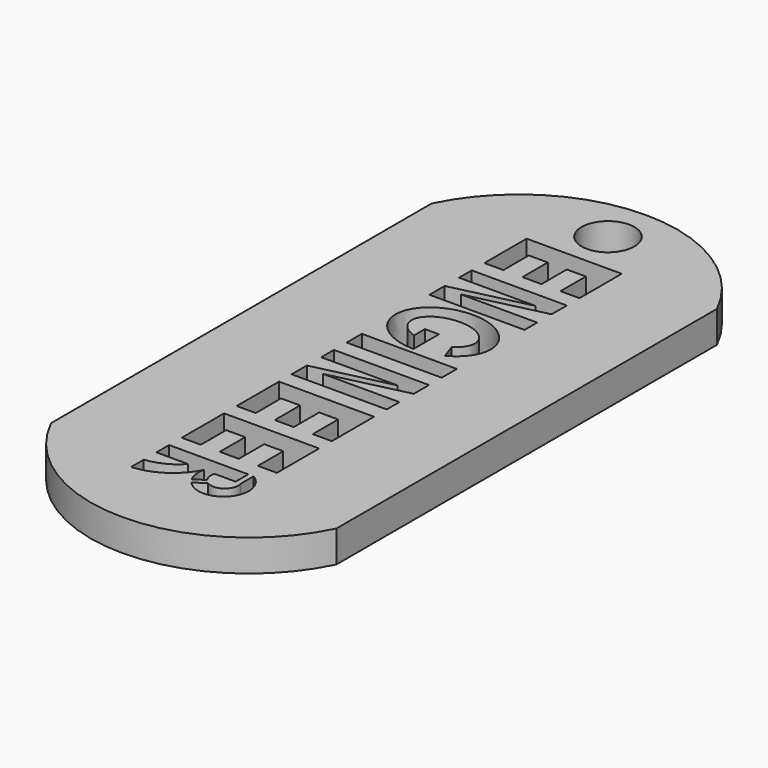
from build123d import *

# Parameters (mm, degrees)
F0_W     = 9
F0_H     = 1.8
F0_R     = 2.5
F0_W_2   = 0.5
F0_H_2   = 1.5
F1_DEPTH = 3


with BuildPart() as f1:
    # F0 (on Top) → F1 (new body)
    with BuildSketch(Plane.XY):
        with BuildLine():
            ThreePointArc((27, 0), (13.5, 8.4616515847), (0, 0))
            Line((0, 0), (0, -45))
            ThreePointArc((0, -45), (13.5, -53.4616515847), (27, -45))
            Line((27, -45), (27, 0))
        make_face()
        with BuildLine():
            Line((9, -43.8), (9, -42.3))
            Line((9, -42.3), (16.5, -42.3))
            Line((16.5, -42.3), (17, -42.3))
            ThreePointArc((17, -42.3), (17.66899179, -45.8750933579), (14.0327498007, -45.9562520189))
            ThreePointArc((14.0327498007, -45.9562520189), (13.8765268876, -45.76063274), (13.7416614246, -45.5497208918))
            ThreePointArc((13.7416614246, -45.5497208918), (13.452948616, -44.6980473592), (13.5, -43.8))
            ThreePointArc((13.5, -43.8), (11.6446119997, -45.8919179995), (9, -46.8))
            Line((9, -46.8), (9, -45.3))
            ThreePointArc((9, -45.3), (10.6342615319, -44.8185230639), (12, -43.8))
            Line((12, -43.8), (9, -43.8))
        make_face(mode=Mode.SUBTRACT)
        Polygon((9, -35.8), (18, -35.8), (18, -40.8), (16.2, -40.8), (16.2, -37.8), (14.4, -37.8), (14.4, -40.8), (12.6, -40.8), (12.6, -37.8), (10.8, -37.8), (10.8, -40.8), (9, -40.8), align=None, mode=Mode.SUBTRACT)
        Polygon((9, -34.3), (9, -29.3), (18, -29.3), (18, -34.3), (16.2, -34.3), (16.2, -31.3), (14.4, -31.3), (14.4, -34.3), (12.6, -34.3), (12.6, -31.3), (10.8, -31.3), (10.8, -34.3), align=None, mode=Mode.SUBTRACT)
        Polygon((9, -24.3), (9, -22.8), (18, -22.8), (18, -24.6), (10.779, -26.3), (18, -26.3), (18, -27.8), (9, -27.8), (9, -26), (16.2212999509, -24.3), align=None, mode=Mode.SUBTRACT)
        with Locations((13.5, -20.4)):
            Rectangle(F0_W, F0_H, mode=Mode.SUBTRACT)
        with BuildLine():
            add(Edge.make_bspline(
                [(18, -15.5), (18, -8.5693256297), (10.8288359741, -12.6833185304), (3.6576719482, -16.7973114311), (12.1711632237, -18.8439192062)],
                knots=[0, 0, 0, 2.2063112748, 2.2063112748, 4.4126225496, 4.4126225496, 4.4126225496], degree=2, weights=[1, 0.4507815404, 1, 0.4507815404, 1]))
            add(Edge.make_bspline(
                [(16, -18.4101779675), (18, -17.3708286934), (18, -15.5)],
                knots=[5.3014199506, 5.3014199506, 5.3014199506, 6.2831853072, 6.2831853072, 6.2831853072], degree=2, weights=[1, 0.8819171037, 1]))
            add(Edge.make_bspline(
                [(13.5, -19), (14.8650167038, -19), (16, -18.4101779675)],
                knots=[4.7123889804, 4.7123889804, 4.7123889804, 5.3014199506, 5.3014199506, 5.3014199506], degree=2, weights=[1, 0.9569428978, 1]))
            add(Edge.make_bspline(
                [(12.1711632237, -18.8439192062), (12.8204290441, -19), (13.5, -19)],
                knots=[4.4126225496, 4.4126225496, 4.4126225496, 4.7123889804, 4.7123889804, 4.7123889804], degree=2, weights=[1, 0.9887885233, 1]))
        make_face(mode=Mode.SUBTRACT)
        Polygon((9, -8), (9, -6.5), (18, -6.5), (18, -8.3), (10.779, -10), (18, -10), (18, -11.5), (9, -11.5), (9, -9.7), (16.2212999509, -8), align=None, mode=Mode.SUBTRACT)
        Polygon((9, -5), (9, 0), (18, 0), (18, -5), (16.2, -5), (16.2, -2), (14.4, -2), (14.4, -5), (12.6, -5), (12.6, -2), (10.8, -2), (10.8, -5), align=None, mode=Mode.SUBTRACT)
        with Locations((13.5, 3.9957081899)):
            Circle(F0_R, mode=Mode.SUBTRACT)
        with BuildLine():
            add(Edge.make_bspline(
                [(16.5, -15.5), (16.5, -11.9027200979), (11.9167297023, -13.8012089051), (7.3334594046, -15.6996977122), (12.1711632237, -17.2930969884)],
                knots=[0, 0, 0, 2.1267537417, 2.1267537417, 4.2535074833, 4.2535074833, 4.2535074833], degree=2, weights=[1, 0.4859234683, 1, 0.4859234683, 1]))
            Line((12.1711632237, -17.2930969884), (12.1711632237, -16))
            Line((12.1711632237, -16), (13.5, -16))
            Line((13.5, -16), (13.5, -17.5))
            add(Edge.make_bspline(
                [(13.5, -17.5), (14.6458980338, -17.5), (15.5, -16.990711985)],
                knots=[4.7123889804, 4.7123889804, 4.7123889804, 5.4421166366, 5.4421166366, 5.4421166366], degree=2, weights=[1, 0.934172359, 1]))
            add(Edge.make_bspline(
                [(15.5, -16.990711985), (16.5, -16.394427191), (16.5, -15.5)],
                knots=[5.4421166366, 5.4421166366, 5.4421166366, 6.2831853072, 6.2831853072, 6.2831853072], degree=2, weights=[1, 0.9128709292, 1]))
        make_face()
        with BuildLine():
            add(Edge.make_bspline(
                [(13.5, -19), (14.8650167038, -19), (16, -18.4101779675)],
                knots=[4.7123889804, 4.7123889804, 4.7123889804, 5.3014199506, 5.3014199506, 5.3014199506], degree=2, weights=[1, 0.9569428978, 1]))
            Line((16, -18.4101779675), (15.5, -16.990711985))
            add(Edge.make_bspline(
                [(13.5, -17.5), (14.6458980338, -17.5), (15.5, -16.990711985)],
                knots=[4.7123889804, 4.7123889804, 4.7123889804, 5.4421166366, 5.4421166366, 5.4421166366], degree=2, weights=[1, 0.934172359, 1]))
            Line((13.5, -17.5), (13.5, -19))
        make_face()
        with BuildLine():
            Line((17, -43.8), (16.5, -43.8))
            Line((16.5, -43.8), (14.5, -43.8))
            ThreePointArc((14.5, -43.8), (14.467921138, -44.3721848606), (14.6849938716, -44.9025658523))
            ThreePointArc((14.6849938716, -44.9025658523), (14.8482368669, -45.09345983), (15.0451432596, -45.2493978266))
            ThreePointArc((15.0451432596, -45.2493978266), (16.5242633972, -45.201349254), (17, -43.8))
        make_face()
        with Locations((16.75, -43.05)):
            Rectangle(F0_W_2, F0_H_2)
        with BuildLine():
            ThreePointArc((13.7416614246, -45.5497208918), (13.8765268876, -45.76063274), (14.0327498007, -45.9562520189))
            Line((14.0327498007, -45.9562520189), (15.0451432596, -45.2493978266))
            ThreePointArc((15.0451432596, -45.2493978266), (14.8482368669, -45.09345983), (14.6849938716, -44.9025658523))
            Line((14.6849938716, -44.9025658523), (13.7416614246, -45.5497208918))
        make_face()
    extrude(amount=F1_DEPTH)


solid = f1.part
